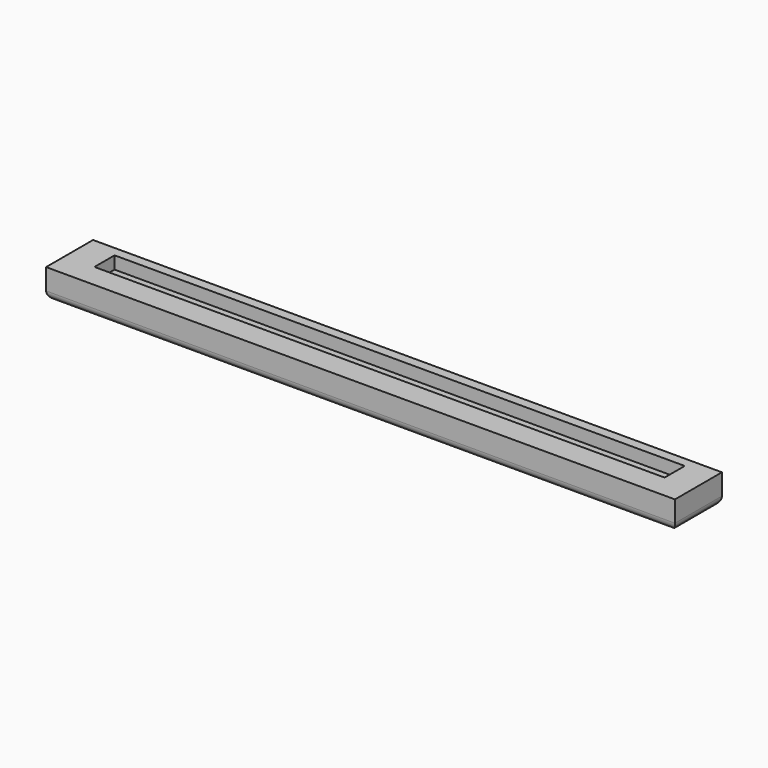
from build123d import *

# Parameters (mm, degrees)
F0_W     = 75
F0_H     = 7
F1_DEPTH = 3.5
F2_W     = 68
F2_H     = 3
F3_DEPTH = 1.5
F4_R     = 1


with BuildPart() as f1:
    # F0 (on Top) → F1 (new body)
    with BuildSketch(Plane.XY):
        Rectangle(F0_W, F0_H)
    extrude(amount=F1_DEPTH)

    # F2 (on face) → F3 (cut)
    with BuildSketch(Plane.XY.offset(3.5)):
        with Locations((0, 0.834541)):
            Rectangle(F2_W, F2_H)
    extrude(amount=-F3_DEPTH, mode=Mode.SUBTRACT)

    # F4
    f4_edges = [f1.edges().sort_by_distance(p)[0] for p in [
        (0, -3.5, 0),
        (37.5, 0, 0),
        (0, 3.5, 0),
        (-37.5, 0, 0),
    ]]
    fillet(f4_edges, radius=F4_R)


solid = f1.part
